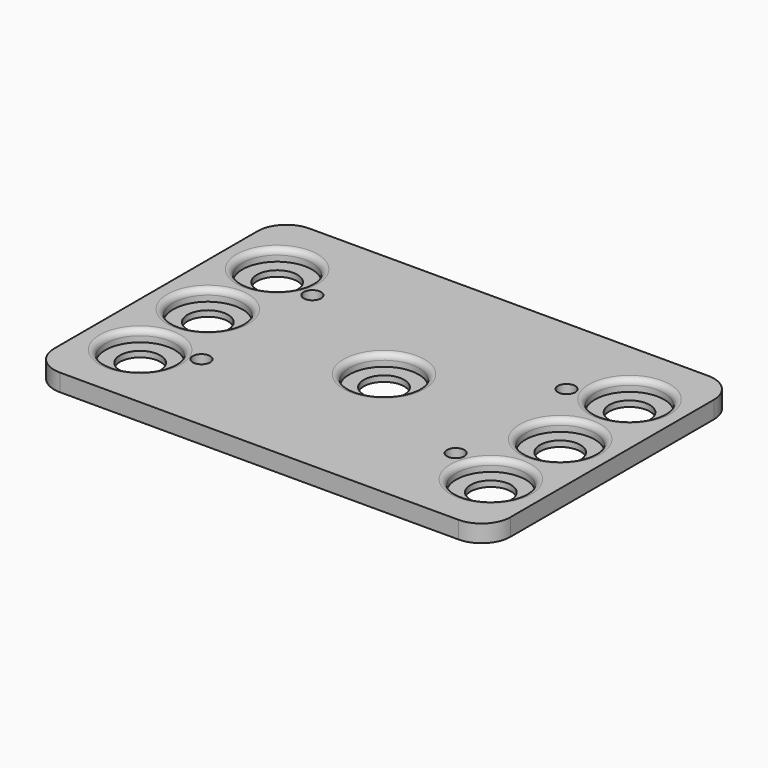
from build123d import *

# Parameters (mm, degrees)
F0_W     = 79
F0_H     = 54
F0_R     = 6
F0_R_2   = 1.5
F1_DEPTH = 3
F0_R_3   = 3.5
F2_DEPTH = 1
F3_R     = 1
F4_R     = 5


with BuildPart() as f1:
    # F0 (on Top) → F1 (new body)
    with BuildSketch(Plane.XY):
        Rectangle(F0_W, F0_H)
        with Locations((-30.214501, -15)):
            Circle(F0_R, mode=Mode.SUBTRACT)
        with Locations((-22, -12)):
            Circle(F0_R_2, mode=Mode.SUBTRACT)
        with Locations((30.5, -15)):
            Circle(F0_R, mode=Mode.SUBTRACT)
        with Locations((22, -12)):
            Circle(F0_R_2, mode=Mode.SUBTRACT)
        with Locations((-30.5, 0)):
            Circle(F0_R, mode=Mode.SUBTRACT)
        with Locations((-22, 12)):
            Circle(F0_R_2, mode=Mode.SUBTRACT)
        with Locations((-30.5, 15)):
            Circle(F0_R, mode=Mode.SUBTRACT)
        Circle(F0_R, mode=Mode.SUBTRACT)
        with Locations((30.5, 0)):
            Circle(F0_R, mode=Mode.SUBTRACT)
        with Locations((22, 12)):
            Circle(F0_R_2, mode=Mode.SUBTRACT)
        with Locations((30.5, 15)):
            Circle(F0_R, mode=Mode.SUBTRACT)
    extrude(amount=F1_DEPTH)

    # F0 (on Top) → F2 (join)
    with BuildSketch(Plane.XY):
        with Locations((-30.5, 15)):
            Circle(F0_R)
        with Locations((-30.5, 15)):
            Circle(F0_R_3, mode=Mode.SUBTRACT)
        with Locations((30.5, 15)):
            Circle(F0_R)
        with Locations((30.5, 15)):
            Circle(F0_R_3, mode=Mode.SUBTRACT)
        with Locations((30.5, 0)):
            Circle(F0_R)
        with Locations((30.5, 0)):
            Circle(F0_R_3, mode=Mode.SUBTRACT)
        with Locations((30.5, -15)):
            Circle(F0_R)
        with Locations((30.5, -15)):
            Circle(F0_R_3, mode=Mode.SUBTRACT)
        with Locations((-30.214501, -15)):
            Circle(F0_R)
        with Locations((-30.214501, -15)):
            Circle(F0_R_3, mode=Mode.SUBTRACT)
        with Locations((-30.5, 0)):
            Circle(F0_R)
        with Locations((-30.5, 0)):
            Circle(F0_R_3, mode=Mode.SUBTRACT)
        Circle(F0_R)
        Circle(F0_R_3, mode=Mode.SUBTRACT)
    extrude(amount=F2_DEPTH)

    # F3
    f3_edges = [f1.edges().sort_by_distance(p)[0] for p in [
        (-36.5, 15, 3),
        (24.5, 15, 3),
        (24.5, 0, 3),
        (24.5, -15, 3),
        (-36.214501, -15, 3),
        (-36.5, 0, 3),
        (-6, 0, 3),
    ]]
    fillet(f3_edges, radius=F3_R)

    # F4
    f4_edges = [f1.edges().sort_by_distance(p)[0] for p in [
        (-39.5, -27, 1.5),
        (39.5, -27, 1.5),
        (39.5, 27, 1.5),
        (-39.5, 27, 1.5),
    ]]
    fillet(f4_edges, radius=F4_R)


solid = f1.part
